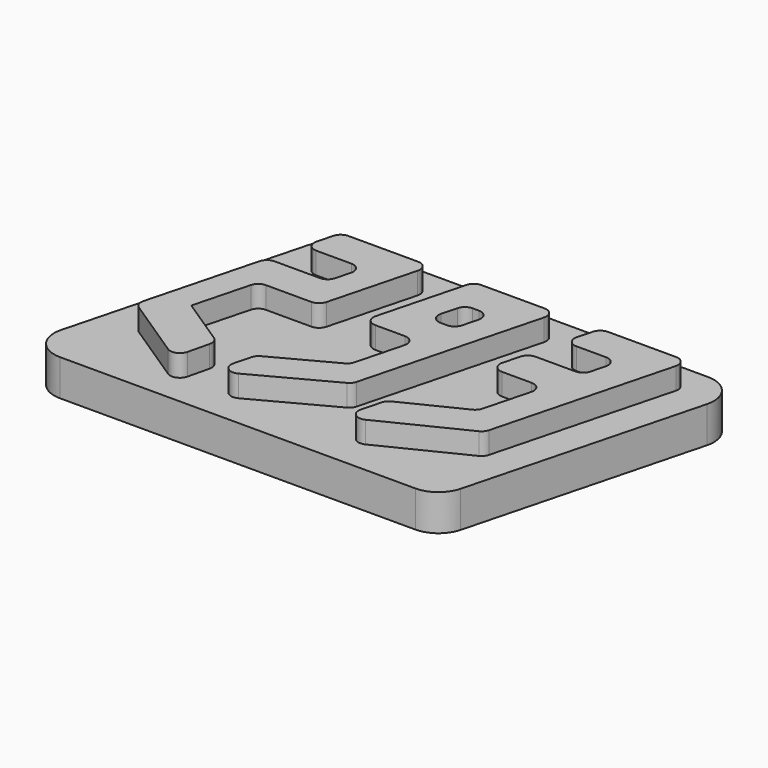
from build123d import *

# Parameters (mm, degrees)
F1_DEPTH = 4.7625
F2_DEPTH = 7.9375
F3_SCALE = 0.75
F4_R     = 1.5875
F5_R     = 1.5875


with BuildPart() as f1:
    # F0 (on Top) → F1 (new body)
    with BuildSketch(Plane.XY):
        Polygon((47.0052342629, 0), (27.7066360927, 0), (25.7264233393, -7.5556741843), (37.7154810129, -7.5556741843), (35.7815611768, -14.9347137119), (23.7925035033, -14.9347137119), (21.7058496291, -22.8965232611), (33.6949073026, -22.8965232611), (30.1152669523, -36.5549527094), (15.6817594308, -43.6786170032), (13.1379523639, -53.3847343652), (35.9669688721, -42.117462739), align=None)
    extrude(amount=F1_DEPTH)



with BuildPart() as f1b:
    # F0 (on Top) → F1, piece 2 (new body)
    with BuildSketch(Plane.XY):
        Polygon((18.1816360927, 0), (0, 0), (-6.0106108367, -22.9340090122), (5.9414930498, -22.9340090122), (2.3059199107, -36.8058548863), (-12.1803115812, -44.5428210678), (-14.6133578163, -53.8263208316), (7.1163145289, -42.2206979224), align=None)
        Polygon((2.1785185584, -15.2999901774), (4.1821230904, -7.6550626248), (9.9458431257, -7.6550626248), (7.9422385937, -15.2999901774), align=None, mode=Mode.SUBTRACT)
    extrude(amount=F1_DEPTH)


with BuildPart() as f1c:
    # F0 (on Top) → F1, piece 3 (new body)
    with BuildSketch(Plane.XY):
        Polygon((-9.525, 0), (-29.1394729799, 0), (-31.1543771622, -7.6880423522), (-17.9473215339, -7.6880423522), (-19.9244964638, -15.2321254565), (-33.1315520921, -15.2321254565), (-40.2081700043, -42.2335772864), (-22.8844385775, -53.6695948649), (-20.7011714692, -44.6316399521), (-32.4044549927, -36.9058819843), (-28.7720391484, -23.0460830432), (-15.5649835201, -23.0460830432), align=None)
    extrude(amount=F1_DEPTH)


with BuildPart() as f1_1:
    add(f1.part)

    add(f1b.part)  # F2 merges F1b

    add(f1c.part)  # F2 merges F1c
    # F0 (on Top) → F2 (join)
    with BuildSketch(Plane.XY):
        with BuildLine():
            ThreePointArc((-30.3934413824, 4.7752), (-34.2728688515, 3.4523803739), (-36.5359867792, 0.0350559091))
            Line((-36.5359867792, 0.0350559091), (-49.8497964294, -50.7649440909))
            ThreePointArc((-49.8497964294, -50.7649440909), (-48.7344314064, -56.2542274692), (-43.7072510326, -58.7248))
            Line((-43.7072510326, -58.7248), (34.1189475279, -58.7248))
            ThreePointArc((34.1189475279, -58.7248), (37.9983749971, -57.4019803739), (40.2614929247, -53.9846559091))
            Line((40.2614929247, -53.9846559091), (53.5753025749, -3.1846559091))
            ThreePointArc((53.5753025749, -3.1846559091), (52.4599375519, 2.3046274692), (47.4327571781, 4.7752))
            Line((47.4327571781, 4.7752), (-30.3934413824, 4.7752))
        make_face()
        Polygon((-31.1543771622, -7.6880423522), (-29.1394729799, 0), (-9.525, 0), (-15.5649835201, -23.0460830432), (-28.7720391484, -23.0460830432), (-32.4044549927, -36.9058819843), (-20.7011714692, -44.6316399521), (-22.8844385775, -53.6695948649), (-40.2081700043, -42.2335772864), (-33.1315520921, -15.2321254565), (-19.9244964638, -15.2321254565), (-17.9473215339, -7.6880423522), align=None, mode=Mode.SUBTRACT)
        Polygon((-6.0106108367, -22.9340090122), (0, 0), (18.1816360927, 0), (7.1163145289, -42.2206979224), (-14.6133578163, -53.8263208316), (-12.1803115812, -44.5428210678), (2.3059199107, -36.8058548863), (5.9414930498, -22.9340090122), align=None, mode=Mode.SUBTRACT)
        Polygon((25.7264233393, -7.5556741843), (27.7066360927, 0), (47.0052342629, 0), (35.9669688721, -42.117462739), (13.1379523639, -53.3847343652), (15.6817594308, -43.6786170032), (30.1152669523, -36.5549527094), (33.6949073026, -22.8965232611), (21.7058496291, -22.8965232611), (23.7925035033, -14.9347137119), (35.7815611768, -14.9347137119), (37.7154810129, -7.5556741843), align=None, mode=Mode.SUBTRACT)
        Polygon((18.1816360927, 0), (0, 0), (-6.0106108367, -22.9340090122), (5.9414930498, -22.9340090122), (2.3059199107, -36.8058548863), (-12.1803115812, -44.5428210678), (-14.6133578163, -53.8263208316), (7.1163145289, -42.2206979224), align=None)
        Polygon((2.1785185584, -15.2999901774), (4.1821230904, -7.6550626248), (9.9458431257, -7.6550626248), (7.9422385937, -15.2999901774), align=None, mode=Mode.SUBTRACT)
        Polygon((47.0052342629, 0), (27.7066360927, 0), (25.7264233393, -7.5556741843), (37.7154810129, -7.5556741843), (35.7815611768, -14.9347137119), (23.7925035033, -14.9347137119), (21.7058496291, -22.8965232611), (33.6949073026, -22.8965232611), (30.1152669523, -36.5549527094), (15.6817594308, -43.6786170032), (13.1379523639, -53.3847343652), (35.9669688721, -42.117462739), align=None)
        Polygon((-9.525, 0), (-29.1394729799, 0), (-31.1543771622, -7.6880423522), (-17.9473215339, -7.6880423522), (-19.9244964638, -15.2321254565), (-33.1315520921, -15.2321254565), (-40.2081700043, -42.2335772864), (-22.8844385775, -53.6695948649), (-20.7011714692, -44.6316399521), (-32.4044549927, -36.9058819843), (-28.7720391484, -23.0460830432), (-15.5649835201, -23.0460830432), align=None)
        Polygon((9.9458431257, -7.6550626248), (4.1821230904, -7.6550626248), (2.1785185584, -15.2999901774), (7.9422385937, -15.2999901774), align=None)
    extrude(amount=-F2_DEPTH)


with BuildPart() as f1_2:
    # F3: moved
    add(f1_1.part.scale(F3_SCALE))

    # F4
    f4_edges = [f1_2.edges().sort_by_distance(p)[0] for p in [
        (-21.854605, 0, 1.785938),
        (-23.365783, -5.766032, 1.785938),
        (-13.460491, -5.766032, 1.785938),
        (-14.943372, -11.424094, 1.785938),
        (-24.848664, -11.424094, 1.785938),
        (-30.156128, -31.675183, 1.785938),
        (-17.163329, -40.252196, 1.785938),
        (-15.525879, -33.47373, 1.785938),
        (-21.579029, -17.284562, 1.785938),
        (-11.673738, -17.284562, 1.785938),
        (-4.507958, -17.200507, 1.785938),
        (4.45612, -17.200507, 1.785938),
        (1.72944, -27.604391, 1.785938),
        (-9.135234, -33.407116, 1.785938),
        (-10.960018, -40.369741, 1.785938),
        (5.337236, -31.665523, 1.785938),
        (13.636227, 0, 1.785938),
        (0, 0, 1.785938),
        (3.136592, -5.741297, 1.785938),
        (1.633889, -11.474993, 1.785938),
        (7.459382, -5.741297, 1.785938),
        (5.956679, -11.474993, 1.785938),
        (-7.14375, 0, 1.785938),
    ]]
    fillet(f4_edges, radius=F4_R)

    # F5
    f5_edges = [f1_2.edges().sort_by_distance(p)[0] for p in [
        (28.286611, -5.666756, 1.785938),
        (19.294818, -5.666756, 1.785938),
        (20.779977, 0, 1.785938),
        (17.844378, -11.201035, 1.785938),
        (16.279387, -17.172392, 1.785938),
        (25.27118, -17.172392, 1.785938),
        (11.76132, -32.758963, 1.785938),
        (9.853464, -40.038551, 1.785938),
        (26.975227, -31.588097, 1.785938),
        (22.58645, -27.416215, 1.785938),
        (26.836171, -11.201035, 1.785938),
        (35.253926, 0, 1.785938),
    ]]
    fillet(f5_edges, radius=F5_R)


solid = f1_2.part
